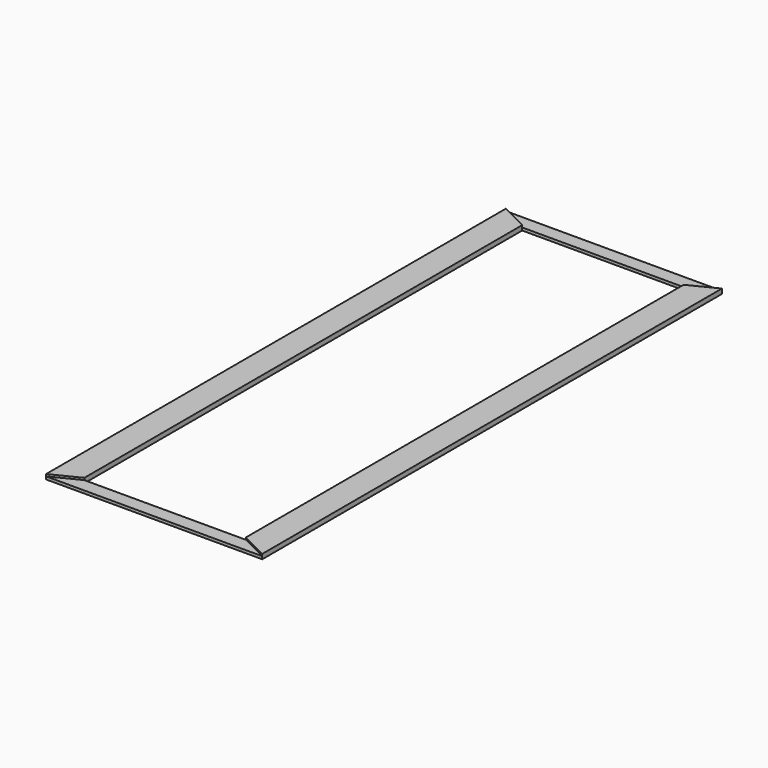
from build123d import *

# Parameters (mm, degrees)
F0_W     = 79
F0_H     = 210
F0_W_2   = 59
F0_H_2   = 200
F1_DEPTH = 1
F3_DEPTH = 0.75


with BuildPart() as f1:
    # F0 (on Top) → F1 (new body)
    with BuildSketch(Plane.XY):
        Rectangle(F0_W, F0_H)
        Rectangle(F0_W_2, F0_H_2, mode=Mode.SUBTRACT)
    extrude(amount=F1_DEPTH)

    # F2 (on face) → F3 (join)
    with BuildSketch(Plane.XY.offset(1)):
        Polygon((-29.5, 100), (-39.5, 105), (-39.5, -105), (-29.5, -100), align=None)
        Polygon((39.5, -105), (39.5, 105), (29.5, 100), (29.5, -100), align=None)
    extrude(amount=F3_DEPTH)


solid = f1.part
